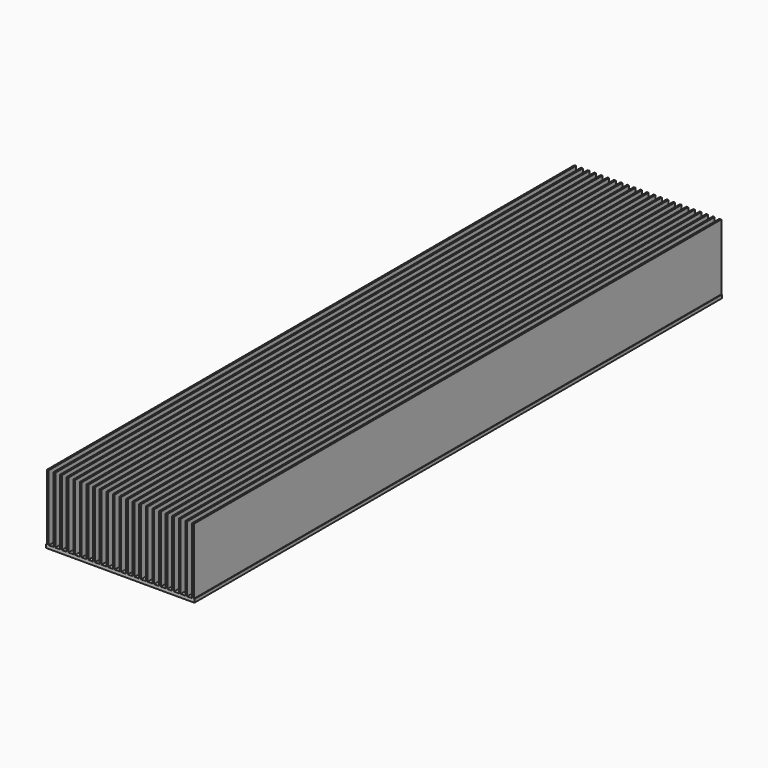
from build123d import *

# Parameters (mm, degrees)
F0_W     = 1.35
F0_H     = 50
F1_DEPTH = 500


with BuildPart() as f1:
    # F0 (on Front) → F1 (new body)
    with BuildSketch(Plane.XZ):
        Polygon((0, 1), (56.25, 1), (56.25, 3.5), (55.75, 3.5), (55.75, 53.5), (54.4, 53.5), (54.4, 3.5), (50.75, 3.5), (49.4, 3.5), (45.75, 3.5), (44.4, 3.5), (40.75, 3.5), (39.4, 3.5), (35.75, 3.5), (34.4, 3.5), (30.75, 3.5), (29.4, 3.5), (25.75, 3.5), (24.4, 3.5), (20.75, 3.5), (19.4, 3.5), (15.75, 3.5), (14.4, 3.5), (10.75, 3.5), (9.4, 3.5), (5.75, 3.5), (4.4, 3.5), (0.75, 3.5), (-0.6, 3.5), (-4.25, 3.5), (-5.6, 3.5), (-9.25, 3.5), (-10.6, 3.5), (-14.25, 3.5), (-15.6, 3.5), (-19.25, 3.5), (-20.6, 3.5), (-24.25, 3.5), (-25.6, 3.5), (-29.25, 3.5), (-30.6, 3.5), (-34.25, 3.5), (-35.6, 3.5), (-39.25, 3.5), (-40.6, 3.5), (-44.25, 3.5), (-45.6, 3.5), (-49.25, 3.5), (-50.6, 3.5), (-52.25, 3.5), (-54.25, 3.5), (-55.6, 3.5), (-56.25, 3.5), (-56.25, 1), align=None)
        with Locations((-54.925, 28.5)):
            Rectangle(F0_W, F0_H)
        with Locations((50.075, 28.5)):
            Rectangle(F0_W, F0_H)
        with Locations((-49.925, 28.5)):
            Rectangle(F0_W, F0_H)
        with Locations((45.075, 28.5)):
            Rectangle(F0_W, F0_H)
        with Locations((-44.925, 28.5)):
            Rectangle(F0_W, F0_H)
        with Locations((40.075, 28.5)):
            Rectangle(F0_W, F0_H)
        with Locations((-39.925, 28.5)):
            Rectangle(F0_W, F0_H)
        with Locations((35.075, 28.5)):
            Rectangle(F0_W, F0_H)
        with Locations((-34.925, 28.5)):
            Rectangle(F0_W, F0_H)
        with Locations((30.075, 28.5)):
            Rectangle(F0_W, F0_H)
        with Locations((-29.925, 28.5)):
            Rectangle(F0_W, F0_H)
        with Locations((25.075, 28.5)):
            Rectangle(F0_W, F0_H)
        with Locations((-24.925, 28.5)):
            Rectangle(F0_W, F0_H)
        with Locations((20.075, 28.5)):
            Rectangle(F0_W, F0_H)
        with Locations((-19.925, 28.5)):
            Rectangle(F0_W, F0_H)
        with Locations((15.075, 28.5)):
            Rectangle(F0_W, F0_H)
        with Locations((-14.925, 28.5)):
            Rectangle(F0_W, F0_H)
        with Locations((10.075, 28.5)):
            Rectangle(F0_W, F0_H)
        with Locations((-9.925, 28.5)):
            Rectangle(F0_W, F0_H)
        with Locations((5.075, 28.5)):
            Rectangle(F0_W, F0_H)
        with Locations((-4.925, 28.5)):
            Rectangle(F0_W, F0_H)
        with Locations((0.075, 28.5)):
            Rectangle(F0_W, F0_H)
    extrude(amount=F1_DEPTH)


solid = f1.part
